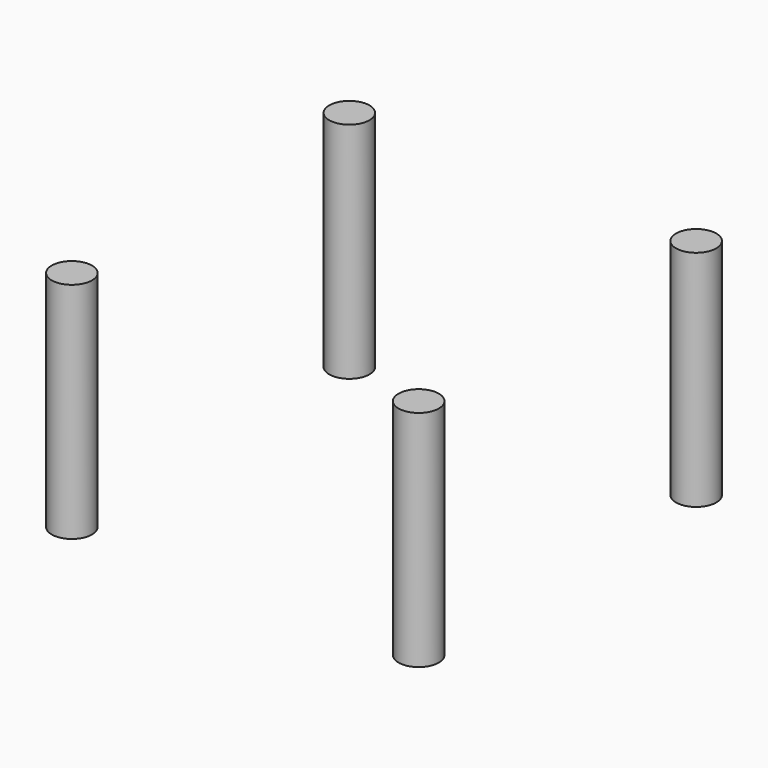
from build123d import *

# Parameters (mm, degrees)
CYLINDER001_R     = 1.8
CYLINDER001_DEPTH = 20
ARRAY_X_COUNT     = 2
ARRAY_X_PITCH     = 31
ARRAY_Y_COUNT     = 2
ARRAY_Y_PITCH     = 31


with BuildPart() as part:
    # Cylinder001 → Cylinder001 (new body)
    with BuildSketch(Plane(origin=(-15.5, -15.5, 0), x_dir=(1, 0, 0), z_dir=(0, 0, 1))):
        Circle(CYLINDER001_R)
    extrude(amount=CYLINDER001_DEPTH)

    # Array X: part ×2


with BuildPart() as part_1:
    add(part.part)
    with Locations(*[(i * ARRAY_X_PITCH, 0, 0) for i in range(1, ARRAY_X_COUNT)]):
        add(part.part)

    # Array Y: part ×2


with BuildPart() as part_2:
    add(part_1.part)
    with Locations(*[(0, i * ARRAY_Y_PITCH, 0) for i in range(1, ARRAY_Y_COUNT)]):
        add(part_1.part)


solid = part_2.part
